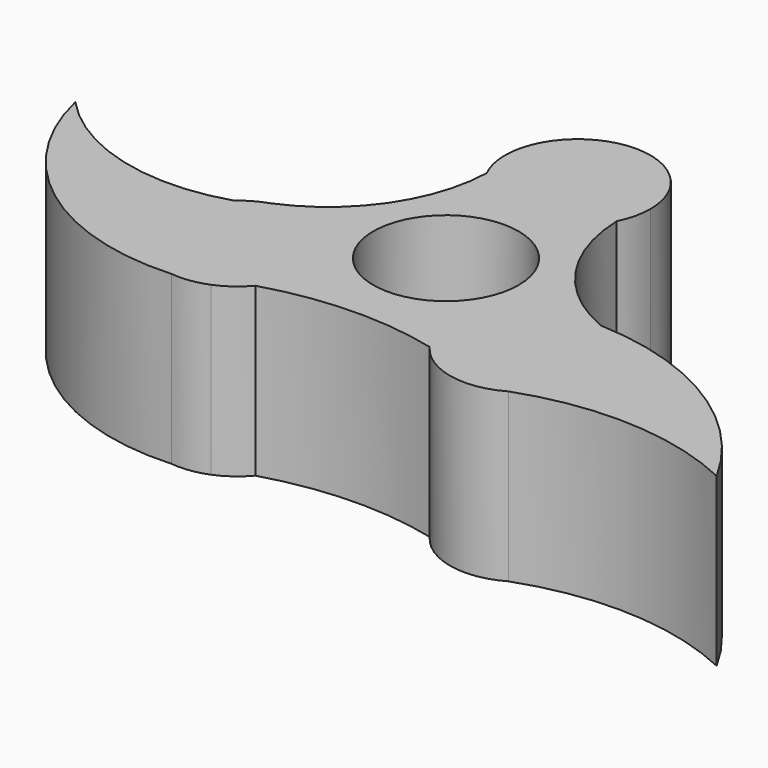
from build123d import *

# Parameters (mm, degrees)
F0_R     = 11.049
F1_DEPTH = 25.4


with BuildPart() as f1:
    # F0 (on Top) → F1 (new body)
    with BuildSketch(Plane.XY):
        with BuildLine():
            ThreePointArc((9.880516, 43.696073), (10.752912, 46.100628), (11.049, 48.641354))
            ThreePointArc((11.049, 48.641354), (3.342308, 59.172706), (-9.026913, 55.012794))
            ThreePointArc((-9.026913, 55.012794), (-11.017702, 49.472403), (-9.880516, 43.696073))
            ThreePointArc((-9.880516, 43.696073), (0, 37.592354), (9.880516, 43.696073))
        make_face()
        with BuildLine():
            ThreePointArc((25.166727, 21.592547), (14.261351, 30.388211), (9.880516, 43.696073))
            ThreePointArc((9.880516, 43.696073), (0, 37.592354), (-9.880516, 43.696073))
            ThreePointArc((-9.880516, 43.696073), (-14.261351, 30.388211), (-25.166727, 21.592547))
            ThreePointArc((-25.166727, 21.592547), (-15.209211, 20.07738), (-10.618396, 11.112323))
            ThreePointArc((-10.618396, 11.112323), (-11.293541, 7.309228), (-13.236467, 3.970907))
            ThreePointArc((-13.236467, 3.970907), (-0.292561, 6.046929), (12.737323, 4.60585))
            ThreePointArc((12.737323, 4.60585), (12.750546, 17.636907), (25.166727, 21.592547))
        make_face()
        with Locations((0, 23.622)):
            Circle(F0_R, mode=Mode.SUBTRACT)
        with BuildLine():
            ThreePointArc((60.015514, 0), (45.437915, 15.390791), (25.166727, 21.592547))
            ThreePointArc((25.166727, 21.592547), (30.632453, 17.570508), (32.716396, 11.112323))
            ThreePointArc((32.716396, 11.112323), (31.227516, 5.572963), (27.162137, 1.526488))
            ThreePointArc((27.162137, 1.526488), (43.741463, 4.048326), (60.015514, 0))
        make_face()
        with BuildLine():
            ThreePointArc((32.716396, 11.112323), (30.632453, 17.570508), (25.166727, 21.592547))
            ThreePointArc((25.166727, 21.592547), (12.750546, 17.636907), (12.737323, 4.60585))
            ThreePointArc((12.737323, 4.60585), (19.360668, 0.306796), (27.162137, 1.526488))
            ThreePointArc((27.162137, 1.526488), (31.227516, 5.572963), (32.716396, 11.112323))
        make_face()
        with BuildLine():
            ThreePointArc((-10.618396, 11.112323), (-15.209211, 20.07738), (-25.166727, 21.592547))
            ThreePointArc((-25.166727, 21.592547), (-27.139076, 20.71134), (-28.902264, 19.463197))
            ThreePointArc((-28.902264, 19.463197), (-32.223312, 7.848423), (-22.92604, 0.135246))
            ThreePointArc((-22.92604, 0.135246), (-20.190383, 0.404429), (-17.484009, 0.885903))
            ThreePointArc((-17.484009, 0.885903), (-15.174357, 2.172477), (-13.236467, 3.970907))
            ThreePointArc((-13.236467, 3.970907), (-11.293541, 7.309228), (-10.618396, 11.112323))
        make_face()
        with BuildLine():
            ThreePointArc((-22.92604, 0.135246), (-32.223312, 7.848423), (-28.902264, 19.463197))
            ThreePointArc((-28.902264, 19.463197), (-45.297393, 19.057617), (-59.379004, 27.464341))
            ThreePointArc((-59.379004, 27.464341), (-46.159112, 7.121744), (-22.92604, 0.135246))
        make_face()
        with BuildLine():
            ThreePointArc((-17.484009, 0.885903), (-20.190383, 0.404429), (-22.92604, 0.135246))
            ThreePointArc((-22.92604, 0.135246), (-20.157627, 0.166959), (-17.484009, 0.885903))
        make_face()
    extrude(amount=F1_DEPTH)


solid = f1.part
